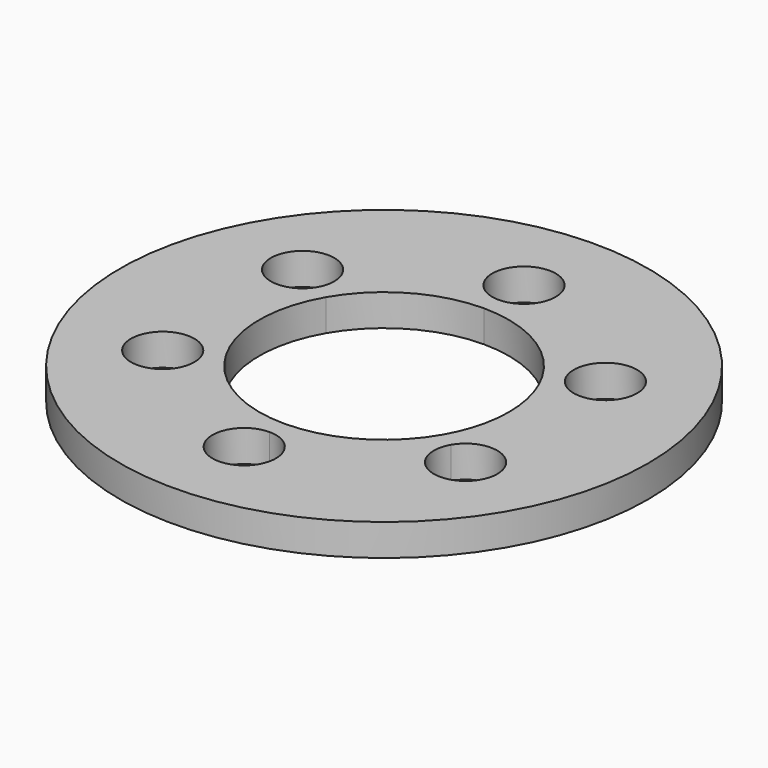
from build123d import *

# Parameters (mm, degrees)
F0_R     = 26.416
F1_DEPTH = 3.175


with BuildPart() as f1:
    # F0 (on Top) → F1 (new body)
    with BuildSketch(Plane.XY):
        Circle(F0_R)
        with BuildLine():
            ThreePointArc((-11.980964, -8.7503), (-18.222779, -9.57205), (-12.406334, -7.1628))
            ThreePointArc((-12.406334, -7.1628), (-12.08915, -7.92855), (-11.980964, -8.7503))
        make_face(mode=Mode.SUBTRACT)
        with BuildLine():
            ThreePointArc((3.175, -17.5006), (-2.245064, -19.745664), (0, -14.3256))
            ThreePointArc((0, -14.3256), (2.245064, -15.255536), (3.175, -17.5006))
        make_face(mode=Mode.SUBTRACT)
        with BuildLine():
            ThreePointArc((18.330964, -8.7503), (14.334214, -11.817114), (12.406334, -7.1628))
            ThreePointArc((12.406334, -7.1628), (15.977715, -5.683486), (18.330964, -8.7503))
        make_face(mode=Mode.SUBTRACT)
        with BuildLine():
            ThreePointArc((-11.980964, 8.7503), (-12.08915, 7.92855), (-12.406334, 7.1628))
            ThreePointArc((-12.406334, 7.1628), (-18.222779, 9.57205), (-11.980964, 8.7503))
        make_face(mode=Mode.SUBTRACT)
        with BuildLine():
            ThreePointArc((10.822546, 6.2484), (12.070982, 3.23441), (12.4968, 0))
            ThreePointArc((12.4968, 0), (12.070982, -3.23441), (10.822546, -6.2484))
            ThreePointArc((10.822546, -6.2484), (6.2484, -10.822546), (0, -12.4968))
            ThreePointArc((0, -12.4968), (-6.2484, -10.822546), (-10.822546, -6.2484))
            ThreePointArc((-10.822546, -6.2484), (-12.4968, 0), (-10.822546, 6.2484))
            ThreePointArc((-10.822546, 6.2484), (-6.2484, 10.822546), (0, 12.4968))
            ThreePointArc((0, 12.4968), (6.2484, 10.822546), (10.822546, 6.2484))
        make_face(mode=Mode.SUBTRACT)
        with BuildLine():
            ThreePointArc((18.330964, 8.7503), (15.977715, 5.683486), (12.406334, 7.1628))
            ThreePointArc((12.406334, 7.1628), (14.334214, 11.817114), (18.330964, 8.7503))
        make_face(mode=Mode.SUBTRACT)
        with BuildLine():
            ThreePointArc((3.175, 17.5006), (2.245064, 15.255536), (0, 14.3256))
            ThreePointArc((0, 14.3256), (-2.245064, 19.745664), (3.175, 17.5006))
        make_face(mode=Mode.SUBTRACT)
    extrude(amount=F1_DEPTH)


solid = f1.part
